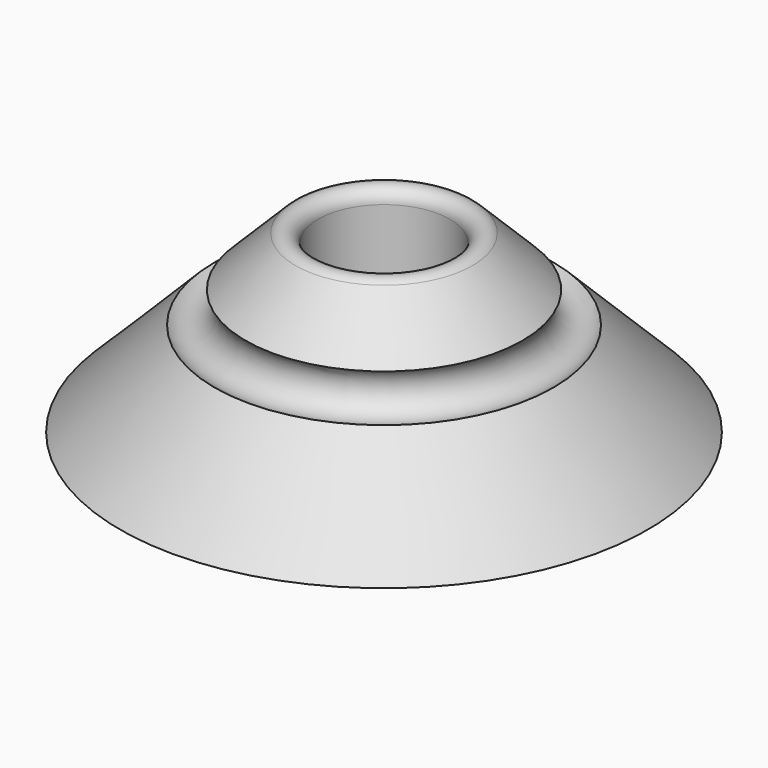
from build123d import *

# Parameters (mm, degrees)
F3_R = 10


with BuildPart() as f2:
    # F0 (on Right) → F2 (revolve)
    with BuildSketch(Plane.YZ):
        with BuildLine():
            Line((-120, 0), (-30, 0))
            Line((-30, 0), (-30, 75.514719))
            ThreePointArc((-30, 75.514719), (-33.703899, 81.057996), (-40.242641, 79.757359))
            Line((-40.242641, 79.757359), (-120, 0))
        make_face()
    revolve(axis=Axis((0, 0, 51.8745), (0, 0, 1)))

    # F3 (on Front) → F5 (revolve, cut)
    with BuildSketch(Plane.XZ):
        with Locations((70, 50)):
            Circle(F3_R)
    revolve(axis=Axis((0, 0, 49.8755), (0, 0, 1)), mode=Mode.SUBTRACT)


solid = f2.part
